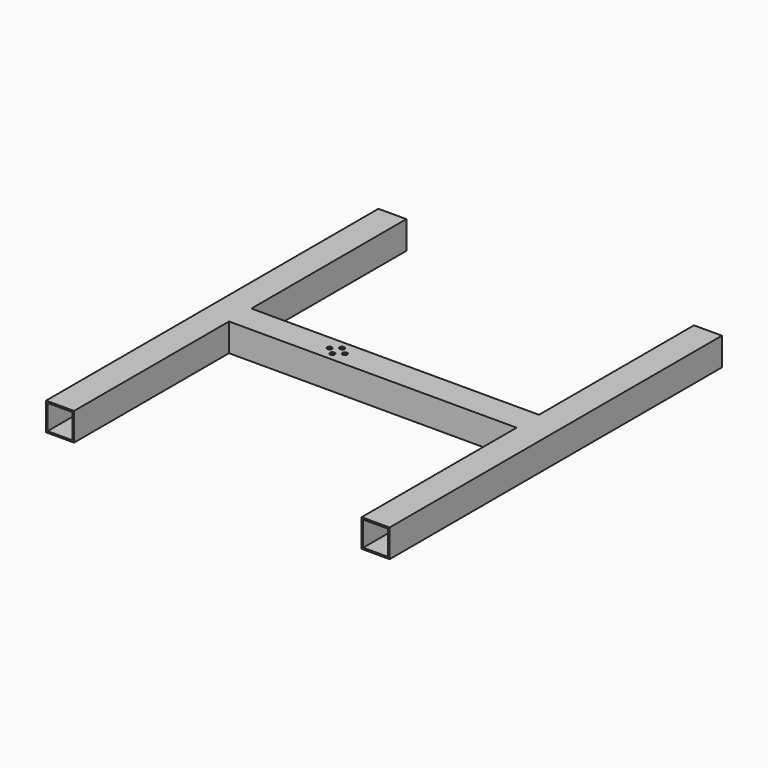
from build123d import *

# Parameters (mm, degrees)
F1_DEPTH = 17.5
F4_T     = -2
F6_D     = 6


with BuildPart() as f1:
    # F0 (on Top) → F1 (new body, symmetric)
    with BuildSketch(Plane.XY):
        Polygon((0, 0), (0, 17.5), (-180, 17.5), (-180, 260), (-215, 260), (-215, 0), align=None)
    extrude(amount=F1_DEPTH, both=True)

    # F2: F1 across plane


with BuildPart() as f1_1:
    add(f1.part)
    add(f1.part.mirror(Plane.XZ))

    # F3: F1 across plane


with BuildPart() as f1_2:
    add(f1_1.part)
    add(f1_1.part.mirror(Plane.YZ))

    # F4
    f4_openings = [f1_2.faces().sort_by_distance(p)[0] for p in [
        (-197.5, -260, 0),
        (197.5, -260, 0),
        (197.5, 260, 0),
        (-197.5, 260, 0),
    ]]
    offset(amount=F4_T, openings=f4_openings, kind=Kind.INTERSECTION)

    # F6 (through all)
    with Locations(Plane.XY.offset(17.5)):
        with Locations((-68, 0), (-58.5, 7.5), (-49, 0), (-58.5, -7.5)):
            Hole(F6_D / 2)


solid = f1_2.part
